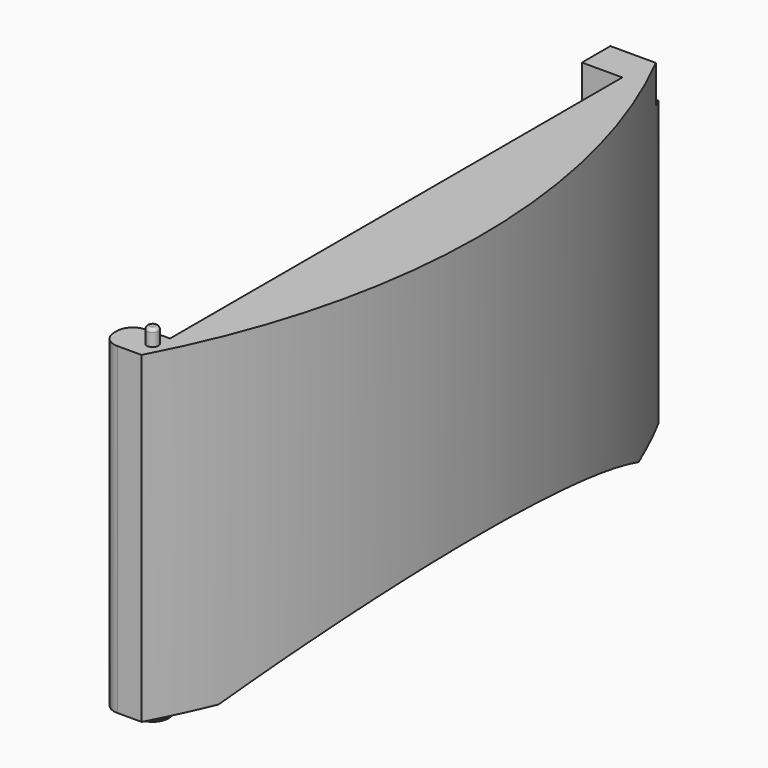
from build123d import *

# Parameters (mm, degrees)
F1_DEPTH  = 12.7
F3_DEPTH  = 101.6
F5_DEPTH  = 38.101
F6_W      = 42.559474
F6_H      = 49.497269
F7_DEPTH  = 38.101
F8_R      = 2
F9_DEPTH  = 5
F10_R     = 5
F10_R_2   = 2
F11_DEPTH = 0.5
F12_R     = 1.8
F13_DEPTH = 5
F14_R     = 1
F16_DEPTH = 12.7
F17_R     = 5.08
F18_SIZE  = 5.08


with BuildPart() as f1:
    # F0 (on Right) → F1 (new body)
    with BuildSketch(Plane.YZ):
        Polygon((0, 101.6), (0, 0), (52.753847, 0), (101.6, 0), (150.446153, 0), (203.2, 0), (203.2, 101.6), (101.6, 101.6), align=None)
    extrude(amount=F1_DEPTH)

    # F2 (on face) → F3 (join, through all)
    with BuildSketch(Plane(origin=(0, 0, 0), x_dir=(1, 0, 0), z_dir=(0, 0, -1))):
        with BuildLine():
            Line((12.7, 0), (12.7, -203.2))
            ThreePointArc((12.7, -203.2), (38.1, -101.6), (12.7, 0))
        make_face()
    extrude(amount=-F3_DEPTH)

    # F4 (on face) → F5 (cut, through all)
    with BuildSketch(Plane(origin=(0, 0, 0), x_dir=(0, -1, 0), z_dir=(-1, 0, 0))):
        with BuildLine():
            Line((-101.6, 0), (-19.05, 0))
            ThreePointArc((-19.05, 0), (-59.240217, 14.225728), (-101.6, 19.05))
            Line((-101.6, 19.05), (-101.6, 0))
        make_face()
        with BuildLine():
            Line((-101.6, 0), (-101.6, 19.05))
            ThreePointArc((-101.6, 19.05), (-143.959783, 14.225728), (-184.15, 0))
            Line((-184.15, 0), (-101.6, 0))
        make_face()
    extrude(amount=-F5_DEPTH, mode=Mode.SUBTRACT)

    # F6 (on face) → F7 (cut, through all)
    with BuildSketch(Plane(origin=(0, 0, 0), x_dir=(0, -1, 0), z_dir=(-1, 0, 0))):
        with Locations((-221.472621, 114.174965)):
            Rectangle(F6_W, F6_H)
    extrude(amount=-F7_DEPTH, mode=Mode.SUBTRACT)

    # F8 (on face) → F9 (cut)
    with BuildSketch(Plane(origin=(0, 0, 0), x_dir=(1, 0, 0), z_dir=(0, 0, -1))):
        with Locations((11.1125, -6.35)):
            Circle(F8_R)
    extrude(amount=-F9_DEPTH, mode=Mode.SUBTRACT)

    # F10 (on face) → F11 (join)
    with BuildSketch(Plane(origin=(0, 0, 0), x_dir=(1, 0, 0), z_dir=(0, 0, -1))):
        with Locations((11.1125, -6.35)):
            Circle(F10_R)
        with Locations((11.1125, -6.35)):
            Circle(F10_R_2, mode=Mode.SUBTRACT)
    extrude(amount=F11_DEPTH)

    # F12 (on face) → F13 (join)
    with BuildSketch(Plane.XY.offset(101.6)):
        with Locations((11.1125, 6.35)):
            Circle(F12_R)
    extrude(amount=F13_DEPTH)

    # F14
    f14_edges = [f1.edges().sort_by_distance(p)[0] for p in [
        (9.3125, 6.35, 106.6),
    ]]
    fillet(f14_edges, radius=F14_R)

    # F15 (on face) → F16 (cut)
    with BuildSketch(Plane(origin=(0, 0, 0), x_dir=(0, -1, 0), z_dir=(-1, 0, 0))):
        Polygon((-100.096442, 101.6), (-188.996442, 101.6), (-188.996442, 0), (-100.096442, 0), (-11.196442, 0), (-11.196442, 101.6), align=None)
    extrude(amount=-F16_DEPTH, mode=Mode.SUBTRACT)

    # F17
    f17_edges = [f1.edges().sort_by_distance(p)[0] for p in [
        (0, 0, 50.8),
        (0, 11.196442, 50.8),
    ]]
    fillet(f17_edges, radius=F17_R)

    # F18
    f18_edges = [f1.edges().sort_by_distance(p)[0] for p in [
        (12.7, 101.6, 19.05),
    ]]
    chamfer(f18_edges, length=F18_SIZE)


solid = f1.part
